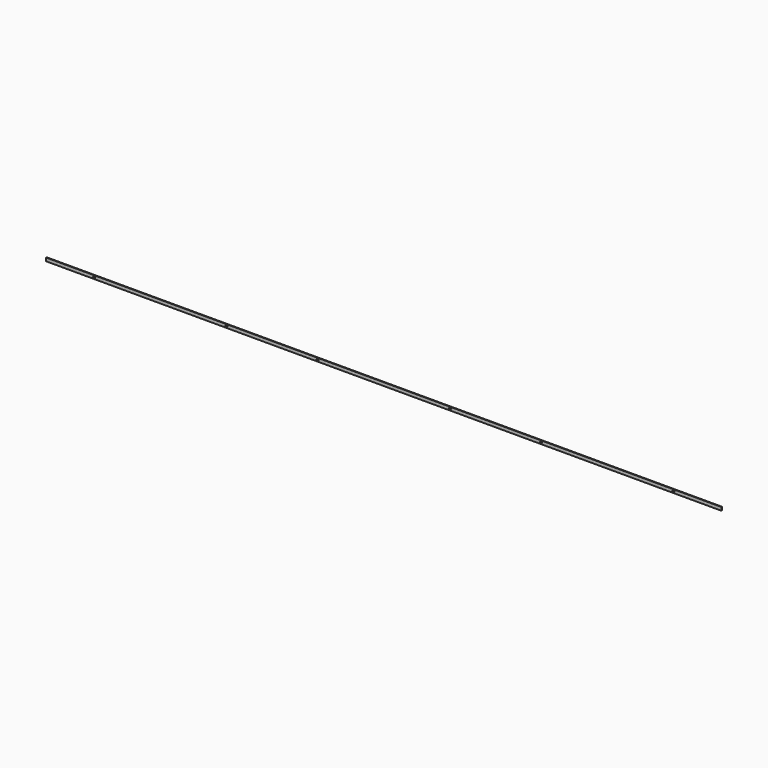
from build123d import *

# Parameters (mm, degrees)
F0_W     = 2040
F0_H     = 10
F1_DEPTH = 2
F2_R     = 3
F3_DEPTH = 2.001


with BuildPart() as f1:
    # F0 (on Front) → F1 (new body)
    with BuildSketch(Plane.XZ):
        with Locations((1020, 5)):
            Rectangle(F0_W, F0_H)
    extrude(amount=F1_DEPTH)

    # F2 (on face) → F3 (cut, through all)
    with BuildSketch(Plane.XZ.offset(2)):
        with Locations((145, 4.660349)):
            Circle(F2_R)
        with Locations((545, 4.660349)):
            Circle(F2_R)
        with Locations((820, 4.660349)):
            Circle(F2_R)
        with Locations((1220, 4.660349)):
            Circle(F2_R)
        with Locations((1495, 4.660349)):
            Circle(F2_R)
        with Locations((1895, 4.660349)):
            Circle(F2_R)
    extrude(amount=-F3_DEPTH, mode=Mode.SUBTRACT)


solid = f1.part
